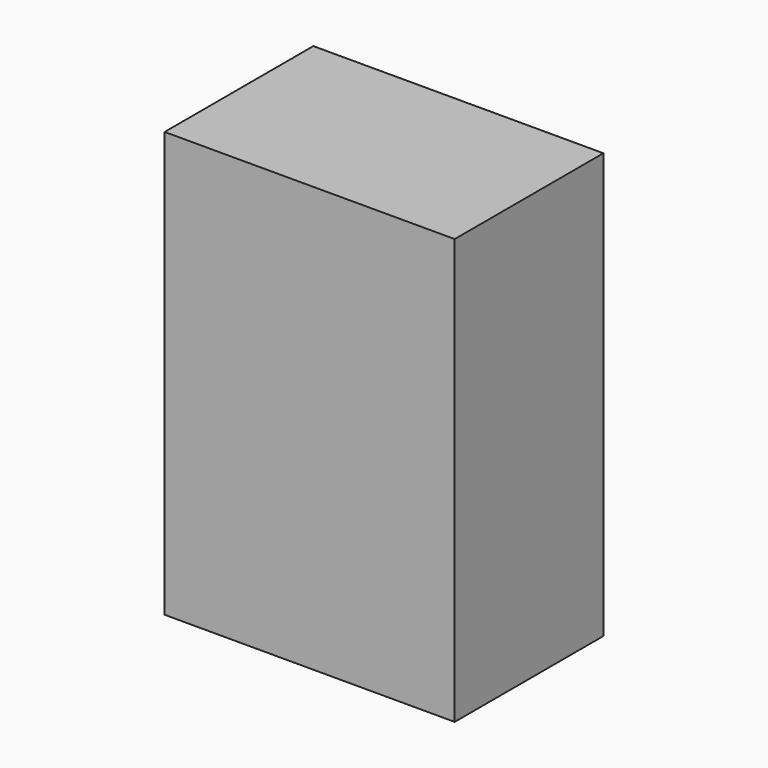
from build123d import *

# Parameters (mm, degrees)
F0_W     = 39.63
F0_H     = 58.08
F1_DEPTH = 25.4
F0_W_2   = 18.75
F0_H_2   = 48.9571709186


with BuildPart() as f1:
    # F0 (on Front) → F1 (new body)
    with BuildSketch(Plane.XZ):
        with Locations((-19.815, 29.04)):
            Rectangle(F0_W, F0_H)
    extrude(amount=F1_DEPTH)


with BuildPart() as f1b:
    # F0 (on Front) → F1, piece 2 (new body)
    with BuildSketch(Plane.XZ):
        with Locations((53.4364521503, -45.8798622712)):
            Rectangle(F0_W_2, F0_H_2)
    extrude(amount=F1_DEPTH)


solid = f1.part
